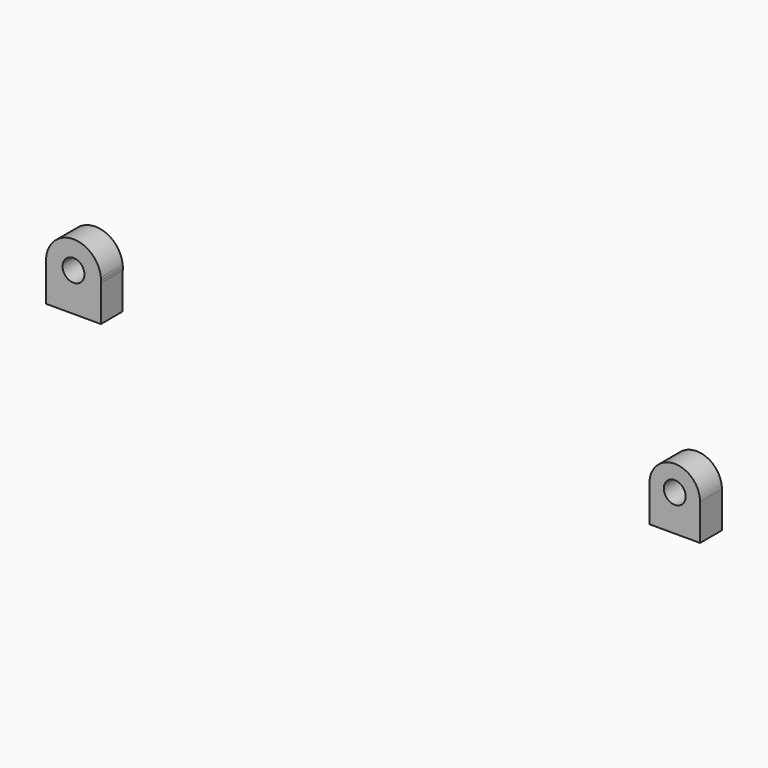
from build123d import *

# Parameters (mm, degrees)
F1_DEPTH = 25


with BuildPart() as f1:
    # F0 (on Front) → F1 (new body)
    with BuildSketch(Plane.XZ):
        with BuildLine():
            ThreePointArc((108.3450048389, 313.3082091808), (108.5552612229, 312.1402568267), (108.6256772453, 310.9556210041))
            ThreePointArc((108.6256772453, 310.9556210041), (97.4410414227, 301.0260370265), (88.9063496518, 313.3082091808))
            Line((88.9063496518, 313.3082091808), (73.6256772453, 313.3082091808))
            ThreePointArc((73.6256772453, 313.3082091808), (73.5428553631, 312.1332107256), (73.5152278043, 310.9556210041))
            ThreePointArc((73.5152278043, 310.9556210041), (97.4480875239, 285.8727991218), (123.6256772453, 308.6030328274))
            Line((123.6256772453, 308.6030328274), (123.6256772453, 313.3082091808))
            Line((123.6256772453, 313.3082091808), (108.3450048389, 313.3082091808))
        make_face()
        with BuildLine():
            ThreePointArc((88.9063496518, 313.3082091808), (98.6256772453, 320.9556210041), (108.3450048389, 313.3082091808))
            Line((108.3450048389, 313.3082091808), (123.6256772453, 313.3082091808))
            ThreePointArc((123.6256772453, 313.3082091808), (98.6256772453, 336.0660704451), (73.6256772453, 313.3082091808))
            Line((73.6256772453, 313.3082091808), (88.9063496518, 313.3082091808))
        make_face()
        with BuildLine():
            ThreePointArc((123.7361266863, 310.9556210041), (123.7084991276, 312.1332107256), (123.6256772453, 313.3082091808))
            Line((123.6256772453, 313.3082091808), (123.6256772453, 308.6030328274))
            ThreePointArc((123.6256772453, 308.6030328274), (123.7084991276, 309.7780312827), (123.7361266863, 310.9556210041))
        make_face()
        with BuildLine():
            ThreePointArc((73.5152278043, 310.9556210041), (73.5428553631, 312.1332107256), (73.6256772453, 313.3082091808))
            Line((73.6256772453, 313.3082091808), (73.5152278043, 313.3082091808))
            Line((73.5152278043, 313.3082091808), (73.5152278043, 310.9556210041))
        make_face()
        with BuildLine():
            Line((123.6256772453, 275.8451715631), (123.6256772453, 308.6030328274))
            ThreePointArc((123.6256772453, 308.6030328274), (97.4480875239, 285.8727991218), (73.5152278043, 310.9556210041))
            Line((73.5152278043, 310.9556210041), (73.5152278043, 275.8451715631))
            Line((73.5152278043, 275.8451715631), (123.6256772453, 275.8451715631))
        make_face()
    extrude(amount=F1_DEPTH)


with BuildPart() as f1b:
    # F0 (on Front) → F1, piece 2 (new body)
    with BuildSketch(Plane.XZ):
        with BuildLine():
            Line((671.7676395361, 310.9556210041), (658.6256772453, 310.9556210041))
            ThreePointArc((658.6256772453, 310.9556210041), (648.6256772453, 300.9556210041), (638.6256772453, 310.9556210041))
            Line((638.6256772453, 310.9556210041), (625.4837149546, 310.9556210041))
            ThreePointArc((625.4837149546, 310.9556210041), (648.6256772453, 287.8136587134), (671.7676395361, 310.9556210041))
        make_face()
        with BuildLine():
            ThreePointArc((638.6256772453, 310.9556210041), (648.6256772453, 320.9556210041), (658.6256772453, 310.9556210041))
            Line((658.6256772453, 310.9556210041), (671.7676395361, 310.9556210041))
            ThreePointArc((671.7676395361, 310.9556210041), (648.6256772453, 334.0975832948), (625.4837149546, 310.9556210041))
            Line((625.4837149546, 310.9556210041), (638.6256772453, 310.9556210041))
        make_face()
        with BuildLine():
            Line((671.7676395361, 277.8136587134), (671.7676395361, 310.9556210041))
            ThreePointArc((671.7676395361, 310.9556210041), (648.6256772453, 287.8136587134), (625.4837149546, 310.9556210041))
            Line((625.4837149546, 310.9556210041), (625.4837149546, 277.8136587134))
            Line((625.4837149546, 277.8136587134), (671.7676395361, 277.8136587134))
        make_face()
    extrude(amount=F1_DEPTH)


solid = Compound([f1.part, f1b.part])
